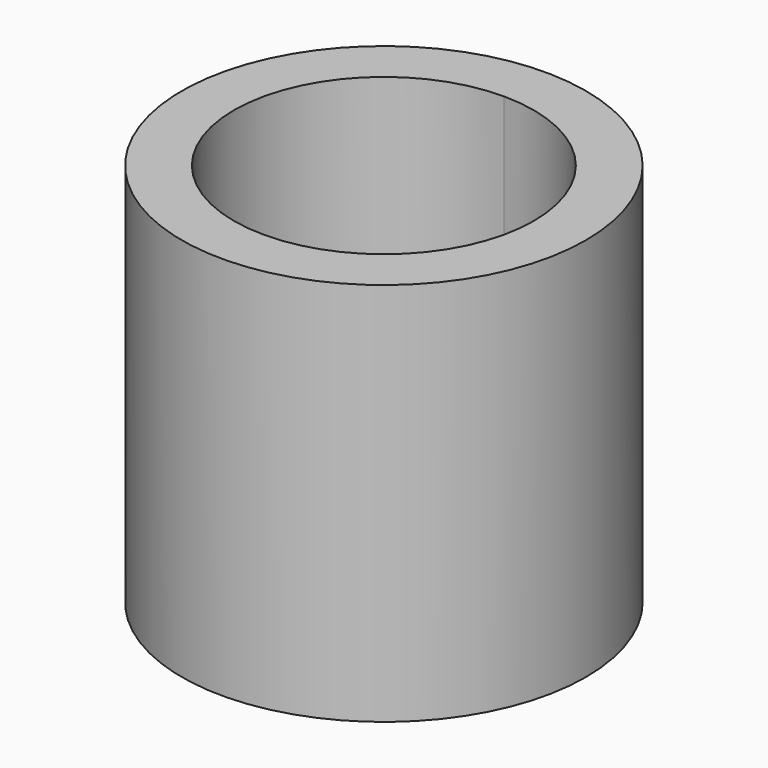
from build123d import *

# Parameters (mm, degrees)
F0_R     = 31
F1_DEPTH = 59
F2_DEPTH = 9


with BuildPart() as f1:
    # F0 (on Top) → F1 (new body)
    with BuildSketch(Plane.XY):
        Circle(F0_R)
        with BuildLine():
            ThreePointArc((0, 23), (16.263456, 16.263456), (23, 0))
            ThreePointArc((23, 0), (16.263456, -16.263456), (0, -23))
            ThreePointArc((0, -23), (-23, 0), (0, 23))
        make_face(mode=Mode.SUBTRACT)
    extrude(amount=F1_DEPTH)

    # F0 (on Top) → F2 (join)
    with BuildSketch(Plane.XY):
        with BuildLine():
            Line((0, -23), (0, 23))
            ThreePointArc((0, 23), (-23, 0), (0, -23))
        make_face()
        with BuildLine():
            ThreePointArc((0, -23), (16.263456, -16.263456), (23, 0))
            ThreePointArc((23, 0), (16.263456, 16.263456), (0, 23))
            Line((0, 23), (0, -23))
        make_face()
    extrude(amount=F2_DEPTH)


solid = f1.part
